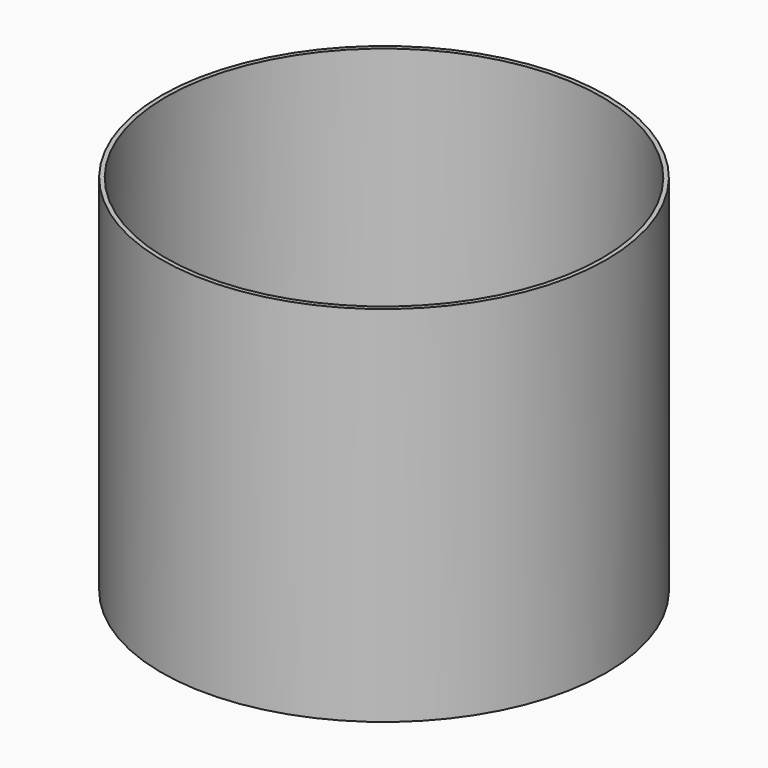
from build123d import *

# Parameters (mm, degrees)
F0_R     = 153
F1_DEPTH = 250
F2_T     = -3
F3_R     = 25
F4_DEPTH = 25


with BuildPart() as f1:
    # F0 (on Top) → F1 (new body)
    with BuildSketch(Plane.XY):
        Circle(F0_R)
    extrude(amount=F1_DEPTH)

    # F2
    f2_openings = [f1.faces().sort_by_distance(p)[0] for p in [
        (0, 0, 250),
    ]]
    offset(amount=F2_T, openings=f2_openings)

    # F3 (on face) → F4 (cut)
    with BuildSketch(Plane.XY.offset(3)):
        with Locations((70, 70)):
            Circle(F3_R)
    extrude(amount=-F4_DEPTH, mode=Mode.SUBTRACT)


solid = f1.part
